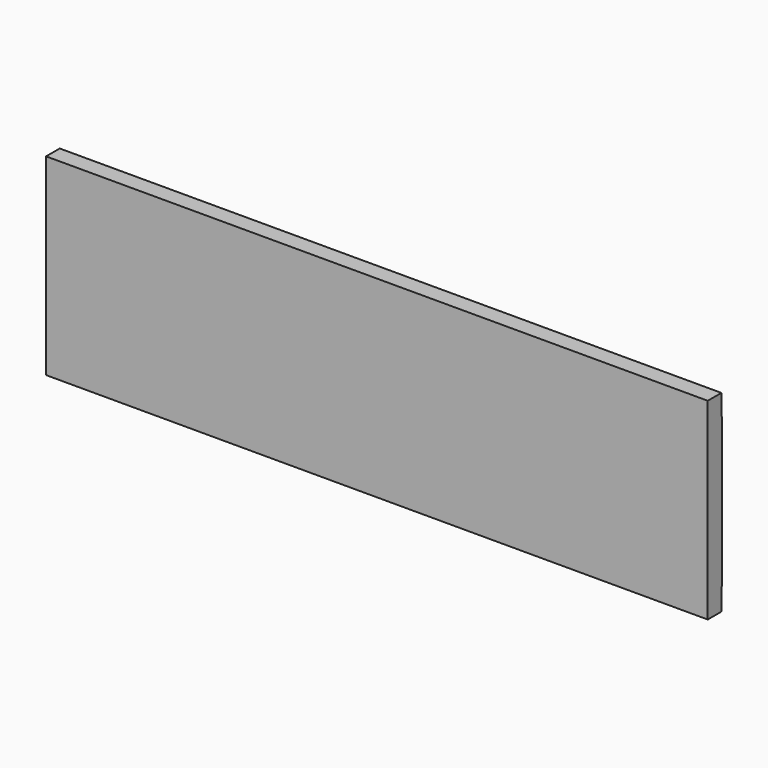
from build123d import *

# Parameters (mm, degrees)
F0_W      = 787.3788177967
F0_H      = 229.1885906598
F1_DEPTH  = 7.62
F2_W      = 787.3788177967
F2_H      = 24.8994113645
F3_DEPTH  = 12.7
F4_W      = 787.3788177967
F4_H      = 26.2663476169
F5_DEPTH  = 12.7
F6_W      = 25.7195234299
F6_H      = 178.0228316784
F7_DEPTH  = 13.462
F8_W      = 27.5898575783
F8_H      = 178.0228316784
F9_DEPTH  = 13.462
F10_W     = 32.9714715481
F10_H     = 178.0228316784
F11_DEPTH = 13.462
F12_W     = 32.9747404903
F12_H     = 178.0228316784
F13_DEPTH = 13.462
F14_W     = 39.5713537
F14_H     = 178.0228316784
F15_DEPTH = 13.462
F16_W     = 39.5713876933
F16_H     = 178.0228316784
F17_DEPTH = 13.462


with BuildPart() as f1:
    # F0 (on Front) → F1 (new body)
    with BuildSketch(Plane.XZ):
        with Locations((43.1885272264, 1.5531365643)):
            Rectangle(F0_W, F0_H)
    extrude(amount=F1_DEPTH)

    # F2 (on face) → F3 (join)
    with BuildSketch(Plane(origin=(0, 0, 0), x_dir=(-1, 0, 0), z_dir=(0, 1, 0))):
        with Locations((-43.1885272264, 103.697726212)):
            Rectangle(F2_W, F2_H)
    extrude(amount=F3_DEPTH)

    # F4 (on face) → F5 (join)
    with BuildSketch(Plane(origin=(0, 0, 0), x_dir=(-1, 0, 0), z_dir=(0, 1, 0))):
        with Locations((-43.1885272264, -99.9079849571)):
            Rectangle(F4_W, F4_H)
    extrude(amount=F5_DEPTH)

    # F6 (on face) → F7 (join)
    with BuildSketch(Plane(origin=(0, 0, 0), x_dir=(-1, 0, 0), z_dir=(0, 1, 0))):
        with Locations((-424.0181744099, 2.2366046906)):
            Rectangle(F6_W, F6_H)
    extrude(amount=F7_DEPTH)

    # F8 (on face) → F9 (join)
    with BuildSketch(Plane(origin=(0, 0, 0), x_dir=(-1, 0, 0), z_dir=(0, 1, 0))):
        with Locations((336.7059528828, 2.2366046906)):
            Rectangle(F8_W, F8_H)
    extrude(amount=F9_DEPTH)

    # F10 (on face) → F11 (join)
    with BuildSketch(Plane(origin=(0, 0, 0), x_dir=(-1, 0, 0), z_dir=(0, 1, 0))):
        with Locations((-275.9774178267, 2.2366046906)):
            Rectangle(F10_W, F10_H)
    extrude(amount=F11_DEPTH)

    # F12 (on face) → F13 (join)
    with BuildSketch(Plane(origin=(0, 0, 0), x_dir=(-1, 0, 0), z_dir=(0, 1, 0))):
        with Locations((-125.517684035, 2.2366046906)):
            Rectangle(F12_W, F12_H)
    extrude(amount=F13_DEPTH)

    # F14 (on face) → F15 (join)
    with BuildSketch(Plane(origin=(0, 0, 0), x_dir=(-1, 0, 0), z_dir=(0, 1, 0))):
        with Locations((26.6765605193, 2.2366046906)):
            Rectangle(F14_W, F14_H)
    extrude(amount=F15_DEPTH)

    # F16 (on face) → F17 (join)
    with BuildSketch(Plane(origin=(0, 0, 0), x_dir=(-1, 0, 0), z_dir=(0, 1, 0))):
        with Locations((181.3858910464, 2.2366046906)):
            Rectangle(F16_W, F16_H)
    extrude(amount=F17_DEPTH)


solid = f1.part
